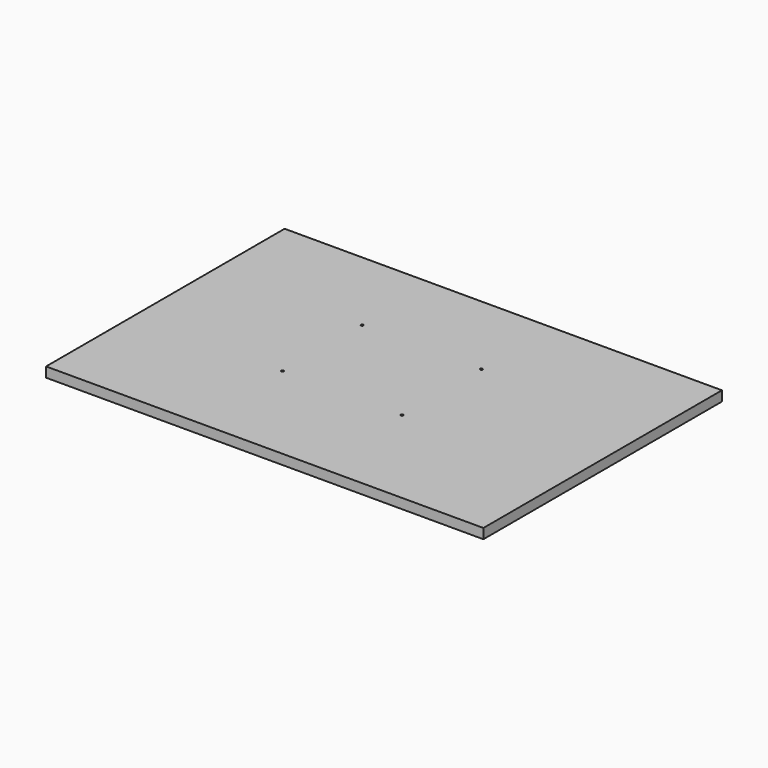
from build123d import *

# Parameters (mm, degrees)
F0_W     = 558.8
F0_H     = 381
F0_R     = 1.5875
F1_DEPTH = 12.7
F2_SIZE2 = 1.46647
F2_SIZE  = 2.54


with BuildPart() as f1:
    # F0 (on Top) → F1 (new body)
    with BuildSketch(Plane.XY):
        Rectangle(F0_W, F0_H)
        with Locations((-88.9, -50.8)):
            Circle(F0_R, mode=Mode.SUBTRACT)
        with Locations((63.5, -50.8)):
            Circle(F0_R, mode=Mode.SUBTRACT)
        with Locations((-88.9, 76.2)):
            Circle(F0_R, mode=Mode.SUBTRACT)
        with Locations((63.5, 76.2)):
            Circle(F0_R, mode=Mode.SUBTRACT)
    extrude(amount=F1_DEPTH)

    # F2
    f2_edges = [f1.edges().sort_by_distance(p)[0] for p in [
        (-90.4875, -50.8, 0),
        (61.9125, -50.8, 0),
        (-90.4875, 76.2, 0),
        (61.9125, 76.2, 0),
    ]]
    chamfer(f2_edges, length=F2_SIZE, length2=F2_SIZE2)


solid = f1.part
